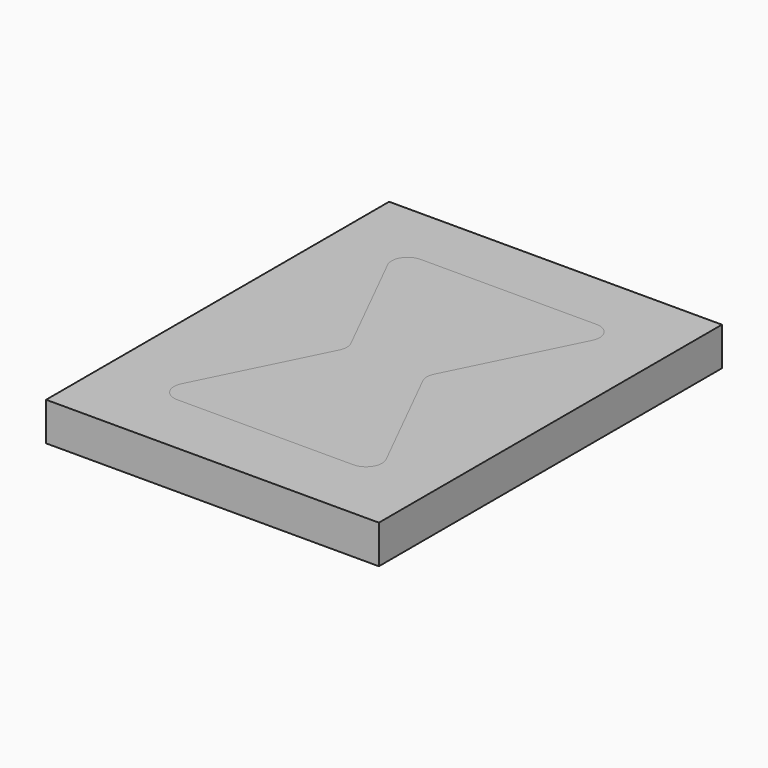
from build123d import *

# Parameters (mm, degrees)
F1_DEPTH = 12
F0_W     = 104
F0_H     = 134
F2_DEPTH = 12


with BuildPart() as f1:
    # F0 (on Top) → F1 (new body)
    with BuildSketch(Plane.XY):
        with BuildLine():
            Line((-58.132685, 0), (-3.132685, 0))
            ThreePointArc((-3.132685, 0), (0.402849, 1.464466), (1.867315, 5))
            ThreePointArc((1.867315, 5), (1.7344, 6.145197), (1.342724, 7.229508))
            Line((1.342724, 7.229508), (-17.608095, 45.270492))
            ThreePointArc((-17.608095, 45.270492), (-18.132685, 47.5), (-17.608095, 49.729508))
            Line((-17.608095, 49.729508), (1.342724, 87.770492))
            ThreePointArc((1.342724, 87.770492), (1.7344, 88.854803), (1.867315, 90))
            ThreePointArc((1.867315, 90), (0.402849, 93.535534), (-3.132685, 95))
            Line((-3.132685, 95), (-58.132685, 95))
            ThreePointArc((-58.132685, 95), (-61.668219, 93.535534), (-63.132685, 90))
            ThreePointArc((-63.132685, 90), (-62.999771, 88.854803), (-62.608095, 87.770492))
            Line((-62.608095, 87.770492), (-43.657276, 49.729508))
            ThreePointArc((-43.657276, 49.729508), (-43.132685, 47.5), (-43.657276, 45.270492))
            Line((-43.657276, 45.270492), (-62.608095, 7.229508))
            ThreePointArc((-62.608095, 7.229508), (-62.999771, 6.145197), (-63.132685, 5))
            ThreePointArc((-63.132685, 5), (-61.668219, 1.464466), (-58.132685, 0))
        make_face()
        with BuildLine():
            Line((-58.132685, 0), (-3.132685, 0))
            ThreePointArc((-3.132685, 0), (0.402849, 1.464466), (1.867315, 5))
            ThreePointArc((1.867315, 5), (1.7344, 6.145197), (1.342724, 7.229508))
            Line((1.342724, 7.229508), (-17.608095, 45.270492))
            ThreePointArc((-17.608095, 45.270492), (-18.132685, 47.5), (-17.608095, 49.729508))
            Line((-17.608095, 49.729508), (1.342724, 87.770492))
            ThreePointArc((1.342724, 87.770492), (1.7344, 88.854803), (1.867315, 90))
            ThreePointArc((1.867315, 90), (0.402849, 93.535534), (-3.132685, 95))
            Line((-3.132685, 95), (-58.132685, 95))
            ThreePointArc((-58.132685, 95), (-61.668219, 93.535534), (-63.132685, 90))
            ThreePointArc((-63.132685, 90), (-62.999771, 88.854803), (-62.608095, 87.770492))
            Line((-62.608095, 87.770492), (-43.657276, 49.729508))
            ThreePointArc((-43.657276, 49.729508), (-43.132685, 47.5), (-43.657276, 45.270492))
            Line((-43.657276, 45.270492), (-62.608095, 7.229508))
            ThreePointArc((-62.608095, 7.229508), (-62.999771, 6.145197), (-63.132685, 5))
            ThreePointArc((-63.132685, 5), (-61.668219, 1.464466), (-58.132685, 0))
        make_face()
    extrude(amount=F1_DEPTH)


with BuildPart() as f2:
    # F0 (on Top) → F2 (new body)
    with BuildSketch(Plane.XY):
        with Locations((-31.132685, 47)):
            Rectangle(F0_W, F0_H)
        with BuildLine():
            ThreePointArc((1.867315, 5), (0.402849, 1.464466), (-3.132685, 0))
            Line((-3.132685, 0), (-58.132685, 0))
            ThreePointArc((-58.132685, 0), (-61.668219, 1.464466), (-63.132685, 5))
            Line((-63.132685, 5), (-63.132685, 90))
            ThreePointArc((-63.132685, 90), (-61.668219, 93.535534), (-58.132685, 95))
            Line((-58.132685, 95), (-3.132685, 95))
            ThreePointArc((-3.132685, 95), (0.402849, 93.535534), (1.867315, 90))
            Line((1.867315, 90), (1.867315, 5))
        make_face(mode=Mode.SUBTRACT)
        with BuildLine():
            Line((-63.132685, 90), (-63.132685, 5))
            ThreePointArc((-63.132685, 5), (-62.999771, 6.145197), (-62.608095, 7.229508))
            Line((-62.608095, 7.229508), (-43.657276, 45.270492))
            ThreePointArc((-43.657276, 45.270492), (-43.132685, 47.5), (-43.657276, 49.729508))
            Line((-43.657276, 49.729508), (-62.608095, 87.770492))
            ThreePointArc((-62.608095, 87.770492), (-62.999771, 88.854803), (-63.132685, 90))
        make_face()
        with BuildLine():
            ThreePointArc((1.342724, 7.229508), (1.7344, 6.145197), (1.867315, 5))
            Line((1.867315, 5), (1.867315, 90))
            ThreePointArc((1.867315, 90), (1.7344, 88.854803), (1.342724, 87.770492))
            Line((1.342724, 87.770492), (-17.608095, 49.729508))
            ThreePointArc((-17.608095, 49.729508), (-18.132685, 47.5), (-17.608095, 45.270492))
            Line((-17.608095, 45.270492), (1.342724, 7.229508))
        make_face()
    extrude(amount=F2_DEPTH)


solid = Compound([f1.part, f2.part])
